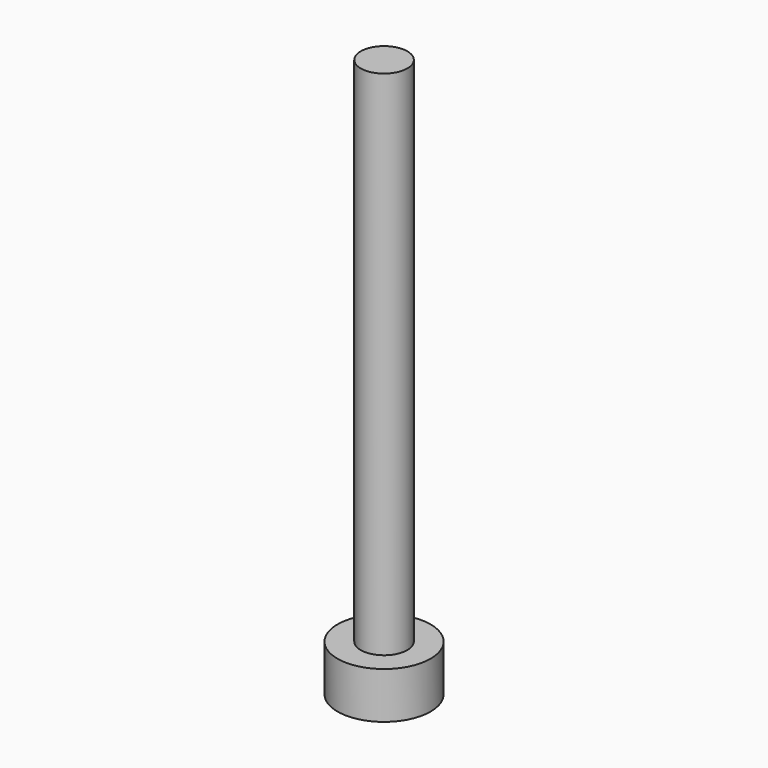
from build123d import *

# Parameters (mm, degrees)
SKETCH_R     = 1
PAD_DEPTH    = 1
SKETCH001_R  = 0.5
PAD001_DEPTH = 11


with BuildPart() as part:
    # Sketch → Pad (new body)
    with BuildSketch(Plane.XY):
        Circle(SKETCH_R)
    extrude(amount=PAD_DEPTH)

    # Sketch001 (on Face3 of Pad) → Pad001 (join)
    with BuildSketch(Plane.XY.offset(1)):
        Circle(SKETCH001_R)
    extrude(amount=PAD001_DEPTH)


solid = part.part
